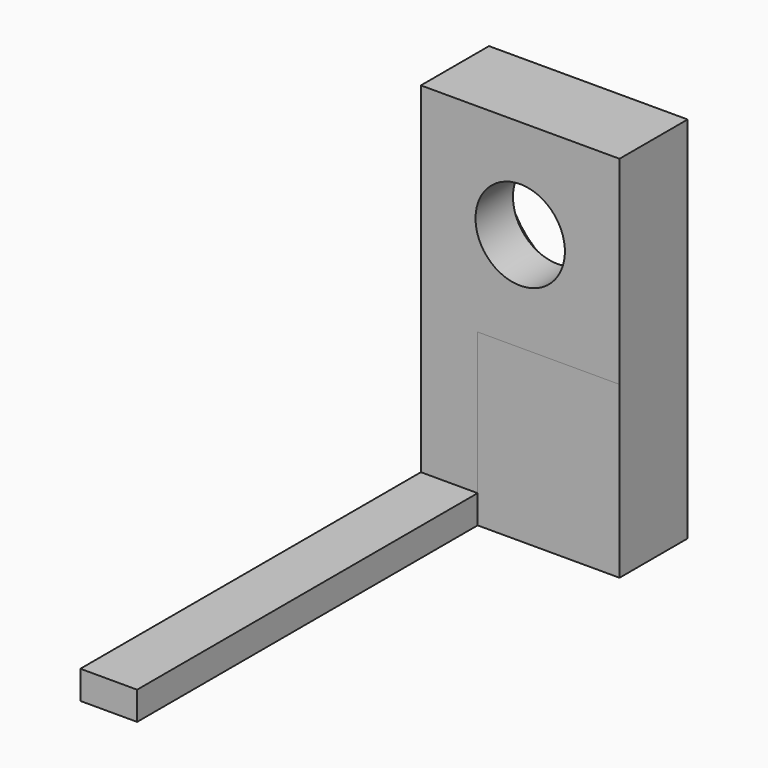
from build123d import *

# Parameters (mm, degrees)
PAD_DEPTH        = 7
SKETCH001_W      = 12.044716
SKETCH001_H      = 19.424721
POCKET_DEPTH     = 6.001
HOLE_D           = 3.15
HOLE_CSINK_D     = 5.85
HOLE_CSINK_ANGLE = 90


with BuildPart() as part:
    # Sketch → Pad (new body)
    with BuildSketch(Plane.YZ):
        Polygon((0, 7), (0, -5), (-15, -5), (-15, -6), (3, -6), (3, 7), align=None)
    extrude(amount=PAD_DEPTH)

    # Sketch001 → Pocket (cut, through all)
    with BuildSketch(Plane.XY):
        with Locations((8.022358, -9.71236)):
            Rectangle(SKETCH001_W, SKETCH001_H)
    extrude(amount=-POCKET_DEPTH, mode=Mode.SUBTRACT)

    # Hole (through all)
    with Locations(Plane(origin=(0, 3, 0), x_dir=(1, 0, 0), z_dir=(0, 1, 0))):
        with Locations((3.5, -3.5)):
            CounterSinkHole(HOLE_D / 2, HOLE_CSINK_D / 2, counter_sink_angle=HOLE_CSINK_ANGLE)


solid = part.part
